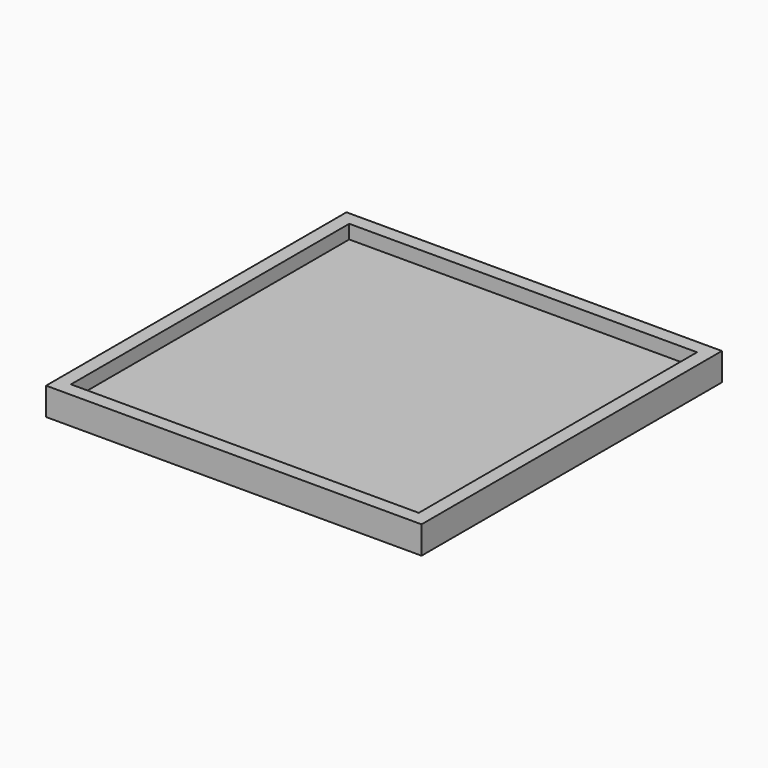
from build123d import *

# Parameters (mm, degrees)
F0_W     = 755
F0_H     = 755
F1_DEPTH = 30
F0_W_2   = 815
F0_H_2   = 815
F2_DEPTH = 60


with BuildPart() as f1:
    # F0 (on Top) → F1 (new body)
    with BuildSketch(Plane.XY):
        with Locations((8.149303, -34.411997)):
            Rectangle(F0_W, F0_H)
    extrude(amount=F1_DEPTH)

    # F0 (on Top) → F2 (join)
    with BuildSketch(Plane.XY):
        with Locations((8.149303, -34.411997)):
            Rectangle(F0_W_2, F0_H_2)
        with Locations((8.149303, -34.411997)):
            Rectangle(F0_W, F0_H, mode=Mode.SUBTRACT)
    extrude(amount=F2_DEPTH)


solid = f1.part
